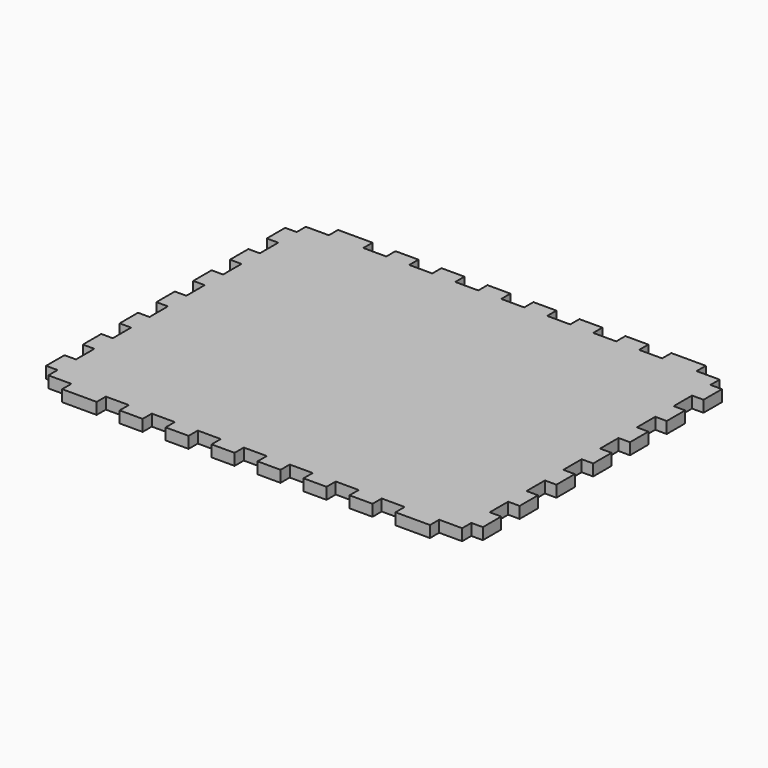
from build123d import *

# Parameters (mm, degrees)
F1_DEPTH = 6.35


with BuildPart() as f1:
    # F0 (on Top) → F1 (new body)
    with BuildSketch(Plane.XY):
        Polygon((38.1, 0), (19.05, 0), (19.05, -6.35), (6.35, -6.35), (6.35, -12.7), (0, -12.7), (0, -25.4), (6.35, -25.4), (6.35, -38.1), (0, -38.1), (0, -50.8), (6.35, -50.8), (6.35, -63.5), (0, -63.5), (0, -76.2), (6.35, -76.2), (6.35, -88.9), (0, -88.9), (0, -101.6), (6.35, -101.6), (6.35, -114.3), (0, -114.3), (0, -127), (6.35, -127), (6.35, -139.7), (0, -139.7), (0, -152.4), (6.35, -152.4), (6.35, -165.1), (0, -165.1), (0, -177.8), (6.35, -177.8), (6.35, -184.15), (19.05, -184.15), (19.05, -190.5), (38.1, -190.5), (38.1, -184.15), (50.8, -184.15), (50.8, -190.5), (63.5, -190.5), (63.5, -184.15), (76.2, -184.15), (76.2, -190.5), (88.9, -190.5), (88.9, -184.15), (101.6, -184.15), (101.6, -190.5), (114.3, -190.5), (114.3, -184.15), (127, -184.15), (127, -190.5), (139.7, -190.5), (139.7, -184.15), (152.4, -184.15), (152.4, -190.5), (165.1, -190.5), (165.1, -184.15), (177.8, -184.15), (177.8, -190.5), (190.5, -190.5), (190.5, -184.15), (203.2, -184.15), (203.2, -190.5), (222.25, -190.5), (222.25, -184.15), (234.95, -184.15), (234.95, -177.8), (241.3, -177.8), (241.3, -165.1), (234.95, -165.1), (234.95, -152.4), (241.3, -152.4), (241.3, -139.7), (234.95, -139.7), (234.95, -127), (241.3, -127), (241.3, -114.3), (234.95, -114.3), (234.95, -101.6), (241.3, -101.6), (241.3, -88.9), (234.95, -88.9), (234.95, -76.2), (241.3, -76.2), (241.3, -63.5), (234.95, -63.5), (234.95, -50.8), (241.3, -50.8), (241.3, -38.1), (234.95, -38.1), (234.95, -25.4), (241.3, -25.4), (241.3, -12.7), (234.95, -12.7), (234.95, -6.35), (222.25, -6.35), (222.25, 0), (203.2, 0), (203.2, -6.35), (190.5, -6.35), (190.5, 0), (177.8, 0), (177.8, -6.35), (165.1, -6.35), (165.1, 0), (152.4, 0), (152.4, -6.35), (139.7, -6.35), (139.7, 0), (127, 0), (127, -6.35), (114.3, -6.35), (114.3, 0), (101.6, 0), (101.6, -6.35), (88.9, -6.35), (88.9, 0), (76.2, 0), (76.2, -6.35), (63.5, -6.35), (63.5, 0), (50.8, 0), (50.8, -6.35), (38.1, -6.35), align=None)
    extrude(amount=F1_DEPTH)


solid = f1.part
